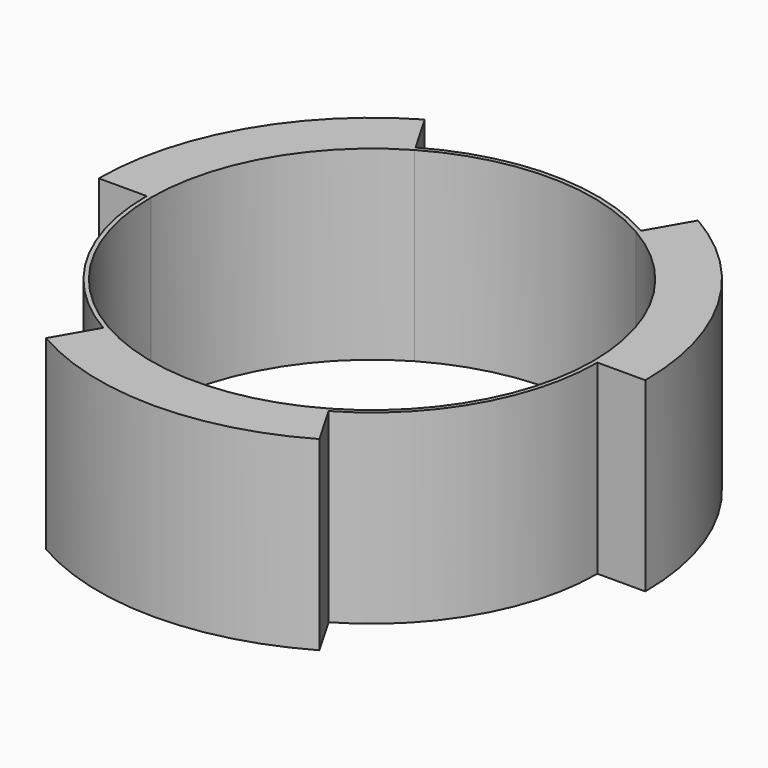
from build123d import *

# Parameters (mm, degrees)
F1_DEPTH = 3.3


with BuildPart() as f1:
    # F0 (on Top) → F1 (new body)
    with BuildSketch(Plane.XY):
        with BuildLine():
            ThreePointArc((2, 3.4641016151), (3.4641016151, 2), (4, 0))
            Line((4, 0), (4.85, 0))
            ThreePointArc((4.85, 0), (4.2002232084, 2.425), (2.425, 4.2002232084))
            Line((2.425, 4.2002232084), (2, 3.4641016151))
        make_face()
        with BuildLine():
            ThreePointArc((1.9625, 3.3991497099), (3.3991497099, 1.9625), (3.925, 0))
            Line((3.925, 0), (4, 0))
            ThreePointArc((4, 0), (3.4641016151, 2), (2, 3.4641016151))
            Line((2, 3.4641016151), (1.9625, 3.3991497099))
        make_face()
        with BuildLine():
            ThreePointArc((-1.9625, 3.3991497099), (0, 3.925), (1.9625, 3.3991497099))
            Line((1.9625, 3.3991497099), (2, 3.4641016151))
            ThreePointArc((2, 3.4641016151), (0, 4), (-2, 3.4641016151))
            Line((-2, 3.4641016151), (-1.9625, 3.3991497099))
        make_face()
        with BuildLine():
            ThreePointArc((-3.925, 0), (-3.3991497099, 1.9625), (-1.9625, 3.3991497099))
            Line((-1.9625, 3.3991497099), (-2, 3.4641016151))
            ThreePointArc((-2, 3.4641016151), (-3.4641016151, 2), (-4, 0))
            Line((-4, 0), (-3.925, 0))
        make_face()
        with BuildLine():
            ThreePointArc((-4, 0), (-3.4641016151, 2), (-2, 3.4641016151))
            Line((-2, 3.4641016151), (-2.425, 4.2002232084))
            ThreePointArc((-2.425, 4.2002232084), (-4.2002232084, 2.425), (-4.85, 0))
            Line((-4.85, 0), (-4, 0))
        make_face()
        with BuildLine():
            Line((-2, -3.4641016151), (-1.9625, -3.3991497099))
            ThreePointArc((-1.9625, -3.3991497099), (-3.3991497099, -1.9625), (-3.925, 0))
            Line((-3.925, 0), (-4, 0))
            ThreePointArc((-4, 0), (-3.4641016151, -2), (-2, -3.4641016151))
        make_face()
        with BuildLine():
            Line((2.425, -4.2002232084), (2, -3.4641016151))
            ThreePointArc((2, -3.4641016151), (0, -4), (-2, -3.4641016151))
            Line((-2, -3.4641016151), (-2.425, -4.2002232084))
            ThreePointArc((-2.425, -4.2002232084), (0, -4.85), (2.425, -4.2002232084))
        make_face()
        with BuildLine():
            Line((2, -3.4641016151), (1.9625, -3.3991497099))
            ThreePointArc((1.9625, -3.3991497099), (0, -3.925), (-1.9625, -3.3991497099))
            Line((-1.9625, -3.3991497099), (-2, -3.4641016151))
            ThreePointArc((-2, -3.4641016151), (0, -4), (2, -3.4641016151))
        make_face()
        with BuildLine():
            Line((4, 0), (3.925, 0))
            ThreePointArc((3.925, 0), (3.3991497099, -1.9625), (1.9625, -3.3991497099))
            Line((1.9625, -3.3991497099), (2, -3.4641016151))
            ThreePointArc((2, -3.4641016151), (3.4641016151, -2), (4, 0))
        make_face()
    extrude(amount=F1_DEPTH)


solid = f1.part
